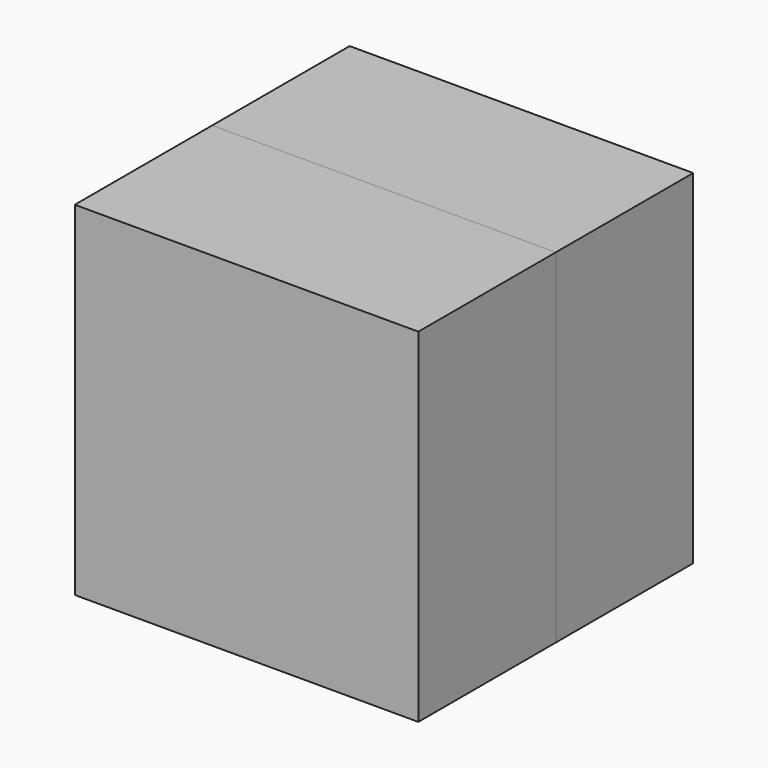
from build123d import *

# Parameters (mm, degrees)
F0_W     = 10
F0_H     = 10
F1_DEPTH = 5


with BuildPart() as f1:
    # F0 (on Front) → F1 (new body)
    with BuildSketch(Plane.XZ):
        Rectangle(F0_W, F0_H)
    extrude(amount=F1_DEPTH)


with BuildPart() as f2_1:
    # F2: copy of F1
    add(f1.part.moved(Location((0, 5, 0))))


solid = Compound([f1.part, f2_1.part])
